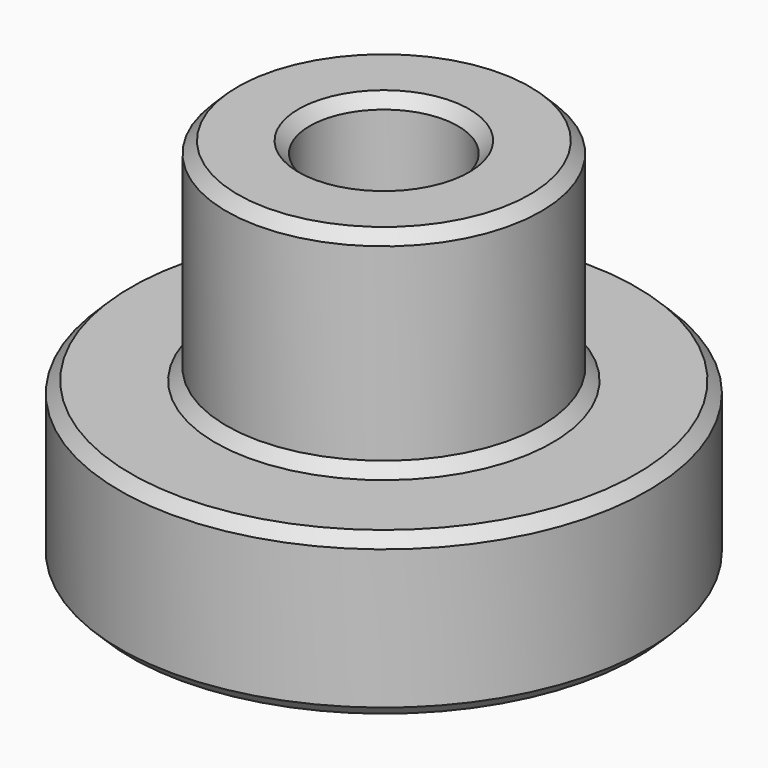
from build123d import *


with BuildPart() as part:
    # Sketch008 → Revolution (revolve)
    with BuildSketch(Plane.YZ):
        Polygon((-1.9, 8.3), (-3.25, 8.3), (-3.5, 8.05), (-3.5, 3.85), (-3.75, 3.6), (-5.625, 3.6), (-5.875, 3.35), (-5.875, 0.25), (-5.625, 0), (-0.85, 0), (-0.85, 2), (-1.65, 2), (-1.65, 8.05), align=None)
    revolve(axis=Axis((0, 0, 0), (0, 0, 1)))


solid = part.part
